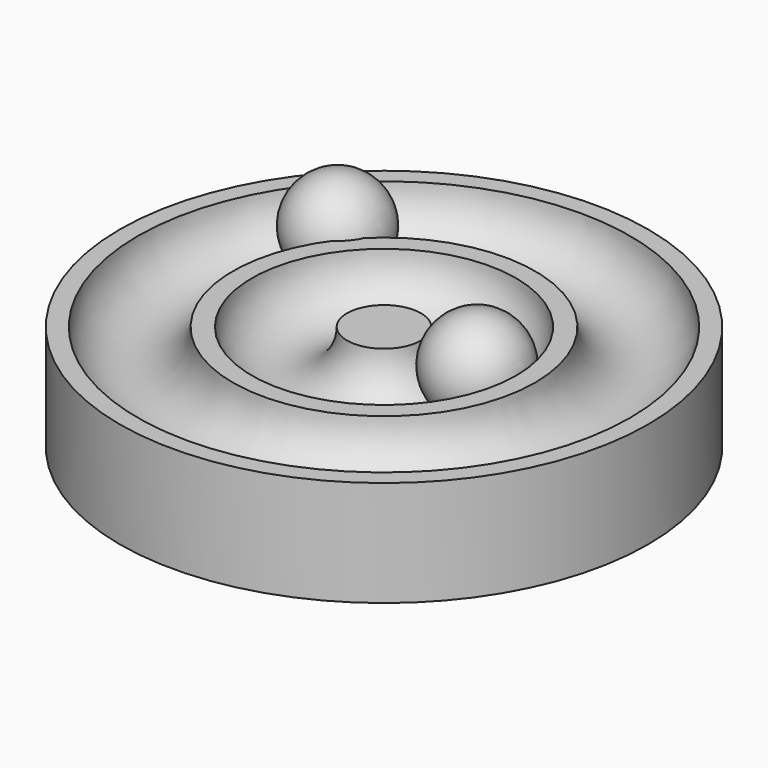
from build123d import *

# Parameters (mm, degrees)
TORUS001_R     = 4.5
TORUS_R        = 4.5
CYLINDER_R     = 25
CYLINDER_DEPTH = 10


with BuildPart() as torus001:
    # Torus001 → Torus001 (revolve)
    with BuildSketch(Plane(origin=(0, 0, 10), x_dir=(1, 0, 0), z_dir=(0, -1, 0))):
        with Locations((18.8, 0)):
            Circle(TORUS001_R)
    revolve(axis=Axis((0, 0, 10), (0, 0, 1)))


with BuildPart() as torus:
    # Torus → Torus (revolve)
    with BuildSketch(Plane(origin=(0, 0, 10), x_dir=(1, 0, 0), z_dir=(0, -1, 0))):
        with Locations((8, 0)):
            Circle(TORUS_R)
    revolve(axis=Axis((0, 0, 10), (0, 0, 1)))


with BuildPart() as obj1:
    # Cylinder → Cylinder (new body)
    with BuildSketch(Plane.XY):
        Circle(CYLINDER_R)
    extrude(amount=CYLINDER_DEPTH)

    # Cut: cut Torus
    add(torus.part, mode=Mode.SUBTRACT)

    # Cut001: cut Torus001
    add(torus001.part, mode=Mode.SUBTRACT)


with BuildPart() as sphere:
    # Sphere → Sphere (revolve)
    with BuildSketch(Plane(origin=(8, 1, 9), x_dir=(1, 0, 0), z_dir=(0, -1, 0))):
        with BuildLine():
            ThreePointArc((0, -4.5), (4.5, 0), (0, 4.5))
            Line((0, 4.5), (0, -4.5))
        make_face()
    revolve(axis=Axis((8, 1, 9), (0, 0, 1)))


with BuildPart() as sphere001:
    # Sphere001 → Sphere001 (revolve)
    with BuildSketch(Plane(origin=(-14, 12, 9), x_dir=(1, 0, 0), z_dir=(0, -1, 0))):
        with BuildLine():
            ThreePointArc((0, -4.5), (4.5, 0), (0, 4.5))
            Line((0, 4.5), (0, -4.5))
        make_face()
    revolve(axis=Axis((-14, 12, 9), (0, 0, 1)))


solid = Compound([obj1.part, sphere.part, sphere001.part])
